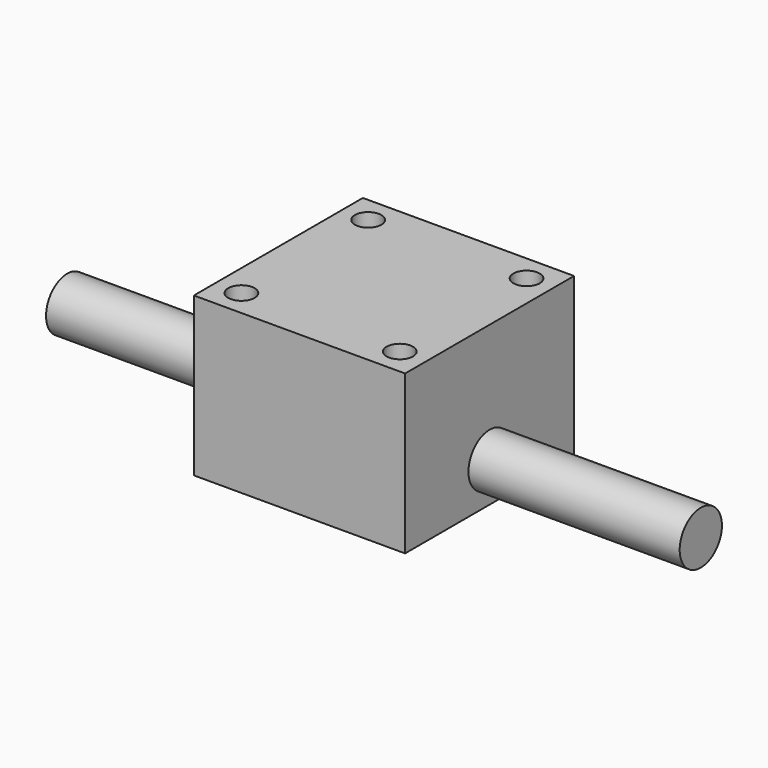
from build123d import *

# Parameters (mm, degrees)
F0_W     = 50.8
F0_H     = 50.8
F0_R     = 3.175
F1_DEPTH = 19.05
F2_R     = 6.35
F3_DEPTH = 76.2


with BuildPart() as f1:
    # F0 (on Top) → F1 (new body, symmetric)
    with BuildSketch(Plane.XY):
        Rectangle(F0_W, F0_H)
        with Locations((-19.05, -19.05)):
            Circle(F0_R, mode=Mode.SUBTRACT)
        with Locations((19.05, -19.05)):
            Circle(F0_R, mode=Mode.SUBTRACT)
        with Locations((-19.05, 19.05)):
            Circle(F0_R, mode=Mode.SUBTRACT)
        with Locations((19.05, 19.05)):
            Circle(F0_R, mode=Mode.SUBTRACT)
    extrude(amount=F1_DEPTH, both=True)


with BuildPart() as f3:
    # F2 (on Right) → F3 (new body, symmetric)
    with BuildSketch(Plane.YZ):
        with Locations((0, -9.525)):
            Circle(F2_R)
    extrude(amount=F3_DEPTH, both=True)


solid = Compound([f1.part, f3.part])
